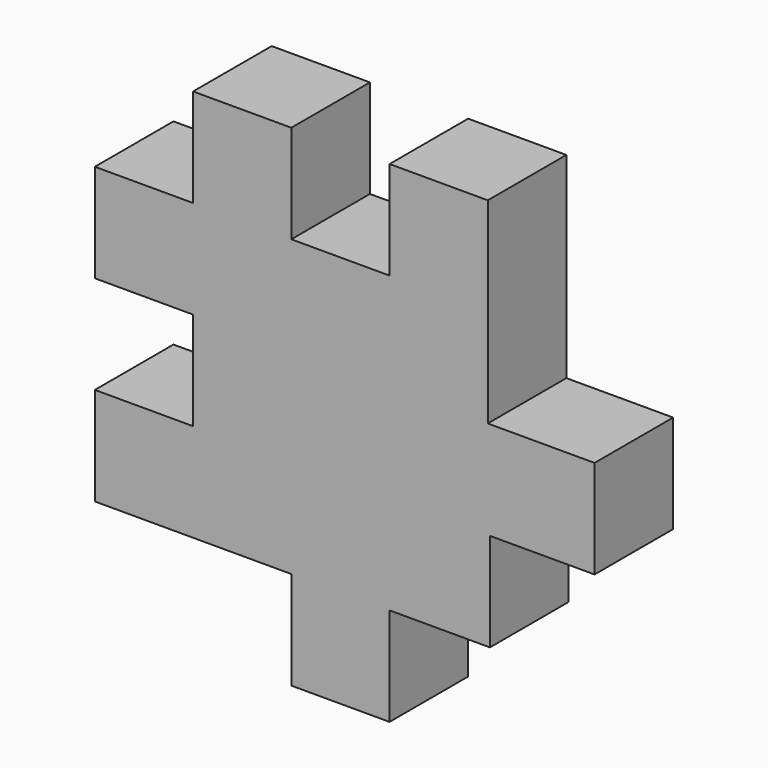
from build123d import *

# Parameters (mm, degrees)
F1_DEPTH = 10


with BuildPart() as f1:
    # F0 (on Front) → F1 (new body)
    with BuildSketch(Plane.XZ):
        Polygon((-40.869566, 33.913044), (-50.869566, 33.913044), (-50.869566, 23.913045), (-40.869569, 23.913045), (-40.869569, 13.913044), (-50.869566, 13.913044), (-50.869566, 3.913044), (-30.869566, 3.913044), (-30.869566, -6.086956), (-20.869566, -6.086956), (-20.869566, 3.913044), (-10.652175, 3.913044), (-10.652175, 13.913044), (0, 13.913044), (0, 23.913044), (-10.869566, 23.913044), (-10.869566, 43.913044), (-20.869566, 43.913044), (-20.869566, 33.913044), (-30.869566, 33.913044), (-30.869566, 43.913044), (-40.869566, 43.913044), align=None)
    extrude(amount=F1_DEPTH)


solid = f1.part
